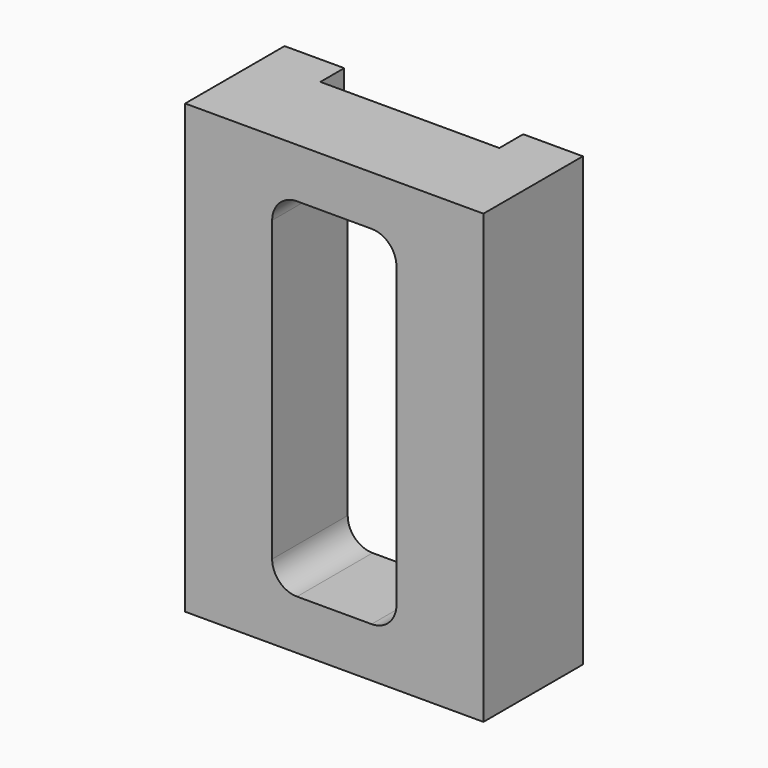
from build123d import *

# Parameters (mm, degrees)
F0_W     = 60
F0_H     = 90
F0_W_2   = 25
F0_H_2   = 70
F1_DEPTH = 12.5
F2_W     = 36
F2_H     = 6
F3_DEPTH = 90.001
F4_R     = 5


with BuildPart() as f1:
    # F0 (on Front) → F1 (new body, symmetric)
    with BuildSketch(Plane.XZ):
        Rectangle(F0_W, F0_H)
        Rectangle(F0_W_2, F0_H_2, mode=Mode.SUBTRACT)
    extrude(amount=F1_DEPTH, both=True)

    # F2 (on face) → F3 (cut, through all)
    with BuildSketch(Plane.XY.offset(45)):
        with Locations((0, 9.5)):
            Rectangle(F2_W, F2_H)
    extrude(amount=-F3_DEPTH, mode=Mode.SUBTRACT)

    # F4
    f4_edges = [f1.edges().sort_by_distance(p)[0] for p in [
        (-12.5, -3, 35),
        (12.5, -3, 35),
        (12.5, -3, -35),
        (-12.5, -3, -35),
    ]]
    fillet(f4_edges, radius=F4_R)


solid = f1.part
